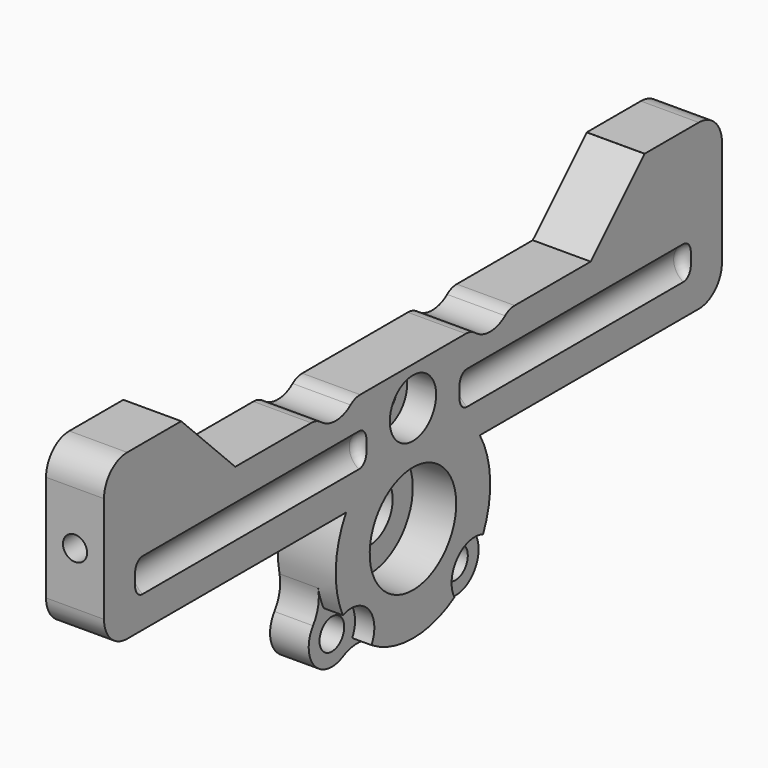
from build123d import *

# Parameters (mm, degrees)
CYLINDER109_R           = 5.6
CYLINDER109_DEPTH       = 4.5
CYLINDER109_PITCH_ANGLE = 90
CYLINDER103_R           = 3.1
CYLINDER103_DEPTH       = 6
CYLINDER103_PITCH_ANGLE = 90
CYLINDER104_R           = 3.1
CYLINDER104_DEPTH       = 6
CYLINDER104_PITCH_ANGLE = 90
CYLINDER057_R           = 2
CYLINDER057_DEPTH       = 30
CYLINDER057_ROLL_ANGLE  = 90
FILLET017_R             = 1
CYLINDER056_R           = 2
CYLINDER056_DEPTH       = 30
CYLINDER056_ROLL_ANGLE  = 90
FILLET016_R             = 1
CYLINDER052_R           = 1.25
CYLINDER052_DEPTH       = 10
CYLINDER052_ROLL_ANGLE  = 90
CYLINDER054_R           = 1.25
CYLINDER054_DEPTH       = 10
CYLINDER054_ROLL_ANGLE  = 90
CYLINDER047_R           = 3
CYLINDER047_DEPTH       = 3
CYLINDER047_PITCH_ANGLE = 90
CYLINDER048_R           = 1.6
CYLINDER048_DEPTH       = 10
CYLINDER048_PITCH_ANGLE = 90
BOX011_W                = 6
BOX011_H                = 10
BOX011_DEPTH            = 17
CYLINDER049_R           = 5.6
CYLINDER049_DEPTH       = 6
CYLINDER049_PITCH_ANGLE = 90
BOX009_W                = 6
BOX009_H                = 80
BOX009_DEPTH            = 10
CYLINDER042_R           = 3
CYLINDER042_DEPTH       = 3
CYLINDER042_PITCH_ANGLE = 90
CYLINDER043_R           = 1.6
CYLINDER043_DEPTH       = 10
CYLINDER043_PITCH_ANGLE = 90
CYLINDER044_R           = 1.6
CYLINDER044_DEPTH       = 10
CYLINDER044_PITCH_ANGLE = 90
CYLINDER041_R           = 3
CYLINDER041_DEPTH       = 3
CYLINDER041_PITCH_ANGLE = 90
CYLINDER035_R           = 3
CYLINDER035_DEPTH       = 6
CYLINDER035_PITCH_ANGLE = 90
CYLINDER040_R           = 3
CYLINDER040_DEPTH       = 6
CYLINDER040_PITCH_ANGLE = 90
CYLINDER034_R           = 3
CYLINDER034_DEPTH       = 5
CYLINDER034_PITCH_ANGLE = 90
CYLINDER033_R           = 5.6
CYLINDER033_DEPTH       = 4
CYLINDER033_PITCH_ANGLE = 90
CYLINDER002_R           = 10
CYLINDER002_DEPTH       = 6
CYLINDER002_PITCH_ANGLE = 90
BOX010_W                = 6
BOX010_H                = 10
BOX010_DEPTH            = 17
FILLET014_R             = 3
CHAMFER001_SIZE         = 6.99
FILLET035_R             = 4
FILLET037_R             = 2


with BuildPart() as cylinder109:
    # Cylinder109 → Cylinder109 (new body)
    with BuildSketch(Plane.XY):
        Circle(CYLINDER109_R)
    extrude(amount=CYLINDER109_DEPTH)


with BuildPart() as cylinder109_1:
    # Cylinder109 pitch: moved
    add(cylinder109.part.rotate(Axis((0, 0, 0), (0, 1, 0)), CYLINDER109_PITCH_ANGLE))


with BuildPart() as cylinder109_2:
    # Cylinder109 placement: moved
    add(cylinder109_1.part.moved(Location((56.5, 15, 19))))


with BuildPart() as cylinder103:
    # Cylinder103 → Cylinder103 (new body)
    with BuildSketch(Plane.XY):
        Circle(CYLINDER103_R)
    extrude(amount=CYLINDER103_DEPTH)


with BuildPart() as cylinder103_1:
    # Cylinder103 pitch: moved
    add(cylinder103.part.rotate(Axis((0, 0, 0), (0, 1, 0)), CYLINDER103_PITCH_ANGLE))


with BuildPart() as cylinder103_2:
    # Cylinder103 placement: moved
    add(cylinder103_1.part.moved(Location((55, 5, 36))))


with BuildPart() as fusion054:
    # Cylinder104 → Cylinder104 (new body)
    with BuildSketch(Plane.XY):
        Circle(CYLINDER104_R)
    extrude(amount=CYLINDER104_DEPTH)


with BuildPart() as fusion054_1:
    # Cylinder104 pitch: moved
    add(fusion054.part.rotate(Axis((0, 0, 0), (0, 1, 0)), CYLINDER104_PITCH_ANGLE))


with BuildPart() as fusion054_2:
    # Cylinder104 placement: moved
    add(fusion054_1.part.moved(Location((55, 25, 36))))

    # Fusion054: union Cylinder103
    add(cylinder103_2.part)


with BuildPart() as fillet017:
    # Cylinder057 → Cylinder057 (new body)
    with BuildSketch(Plane.XY):
        Circle(CYLINDER057_R)
    extrude(amount=CYLINDER057_DEPTH)


with BuildPart() as fillet017_1:
    # Cylinder057 roll: moved
    add(fillet017.part.rotate(Axis((0, 0, 0), (1, 0, 0)), CYLINDER057_ROLL_ANGLE))


with BuildPart() as fillet017_2:
    # Cylinder057 placement: moved
    add(fillet017_1.part.moved(Location((62, 9, 29))))

    # Fillet017
    fillet017_edges = [fillet017_2.edges().sort_by_distance(p)[0] for p in [
        (60, -21, 29),
        (60, 9, 29),
    ]]
    fillet(fillet017_edges, radius=FILLET017_R)


with BuildPart() as fillet017_3:
    # Fillet017 placement: moved
    add(fillet017_2.part.moved(Location((0, 42, 0))))


with BuildPart() as fusion028:
    # Cylinder056 → Cylinder056 (new body)
    with BuildSketch(Plane.XY):
        Circle(CYLINDER056_R)
    extrude(amount=CYLINDER056_DEPTH)


with BuildPart() as fusion028_1:
    # Cylinder056 roll: moved
    add(fusion028.part.rotate(Axis((0, 0, 0), (1, 0, 0)), CYLINDER056_ROLL_ANGLE))


with BuildPart() as fusion028_2:
    # Cylinder056 placement: moved
    add(fusion028_1.part.moved(Location((62, 9, 29))))

    # Fillet016
    fillet016_edges = [fusion028_2.edges().sort_by_distance(p)[0] for p in [
        (60, -21, 29),
        (60, 9, 29),
    ]]
    fillet(fillet016_edges, radius=FILLET016_R)

    # Fusion028: union Fillet017
    add(fillet017_3.part)


with BuildPart() as cylinder052:
    # Cylinder052 → Cylinder052 (new body)
    with BuildSketch(Plane.XY):
        Circle(CYLINDER052_R)
    extrude(amount=CYLINDER052_DEPTH)


with BuildPart() as cylinder052_1:
    # Cylinder052 roll: moved
    add(cylinder052.part.rotate(Axis((0, 0, 0), (1, 0, 0)), CYLINDER052_ROLL_ANGLE))


with BuildPart() as cylinder052_2:
    # Cylinder052 placement: moved
    add(cylinder052_1.part.moved(Location((58, -15, 32.5))))


with BuildPart() as fusion027:
    # Cylinder054 → Cylinder054 (new body)
    with BuildSketch(Plane.XY):
        Circle(CYLINDER054_R)
    extrude(amount=CYLINDER054_DEPTH)


with BuildPart() as fusion027_1:
    # Cylinder054 roll: moved
    add(fusion027.part.rotate(Axis((0, 0, 0), (1, 0, 0)), CYLINDER054_ROLL_ANGLE))


with BuildPart() as fusion027_2:
    # Cylinder054 placement: moved
    add(fusion027_1.part.moved(Location((58, 55, 32.5))))

    # Fusion027: union Cylinder052
    add(cylinder052_2.part)


with BuildPart() as cylinder047:
    # Cylinder047 → Cylinder047 (new body)
    with BuildSketch(Plane.XY):
        Circle(CYLINDER047_R)
    extrude(amount=CYLINDER047_DEPTH)


with BuildPart() as cylinder047_1:
    # Cylinder047 pitch: moved
    add(cylinder047.part.rotate(Axis((0, 0, 0), (0, 1, 0)), CYLINDER047_PITCH_ANGLE))


with BuildPart() as cylinder047_2:
    # Cylinder047 placement: moved
    add(cylinder047_1.part.moved(Location((58, 22, 12))))


with BuildPart() as fusion024:
    # Cylinder048 → Cylinder048 (new body)
    with BuildSketch(Plane.XY):
        Circle(CYLINDER048_R)
    extrude(amount=CYLINDER048_DEPTH)


with BuildPart() as fusion024_1:
    # Cylinder048 pitch: moved
    add(fusion024.part.rotate(Axis((0, 0, 0), (0, 1, 0)), CYLINDER048_PITCH_ANGLE))


with BuildPart() as fusion024_2:
    # Cylinder048 placement: moved
    add(fusion024_1.part.moved(Location((48, 22, 12))))

    # Fusion024: union Cylinder047
    add(cylinder047_2.part)


with BuildPart() as fusion024_3:
    # Fusion024 placement: moved
    add(fusion024_2.part.moved(Location((0, -7, 18))))


with BuildPart() as cube004:
    # Box011 → Box011 (new body)
    with BuildSketch(Plane(origin=(55, 45, 24), x_dir=(1, 0, 0), z_dir=(0, 0, 1))):
        with Locations((3, 5)):
            Rectangle(BOX011_W, BOX011_H)
    extrude(amount=BOX011_DEPTH)


with BuildPart() as cylinder049:
    # Cylinder049 → Cylinder049 (new body)
    with BuildSketch(Plane.XY):
        Circle(CYLINDER049_R)
    extrude(amount=CYLINDER049_DEPTH)


with BuildPart() as cylinder049_1:
    # Cylinder049 pitch: moved
    add(cylinder049.part.rotate(Axis((0, 0, 0), (0, 1, 0)), CYLINDER049_PITCH_ANGLE))


with BuildPart() as cylinder049_2:
    # Cylinder049 placement: moved
    add(cylinder049_1.part.moved(Location((55, 15, 19))))


with BuildPart() as cut016:
    # Box009 → Box009 (new body)
    with BuildSketch(Plane(origin=(55, -25, 24), x_dir=(1, 0, 0), z_dir=(0, 0, 1))):
        with Locations((3, 40)):
            Rectangle(BOX009_W, BOX009_H)
    extrude(amount=BOX009_DEPTH)

    # Cut016: cut Cylinder049
    add(cylinder049_2.part, mode=Mode.SUBTRACT)


with BuildPart() as cylinder042:
    # Cylinder042 → Cylinder042 (new body)
    with BuildSketch(Plane.XY):
        Circle(CYLINDER042_R)
    extrude(amount=CYLINDER042_DEPTH)


with BuildPart() as cylinder042_1:
    # Cylinder042 pitch: moved
    add(cylinder042.part.rotate(Axis((0, 0, 0), (0, 1, 0)), CYLINDER042_PITCH_ANGLE))


with BuildPart() as cylinder042_2:
    # Cylinder042 placement: moved
    add(cylinder042_1.part.moved(Location((58, 7, 12))))


with BuildPart() as cylinder043:
    # Cylinder043 → Cylinder043 (new body)
    with BuildSketch(Plane.XY):
        Circle(CYLINDER043_R)
    extrude(amount=CYLINDER043_DEPTH)


with BuildPart() as cylinder043_1:
    # Cylinder043 pitch: moved
    add(cylinder043.part.rotate(Axis((0, 0, 0), (0, 1, 0)), CYLINDER043_PITCH_ANGLE))


with BuildPart() as cylinder043_2:
    # Cylinder043 placement: moved
    add(cylinder043_1.part.moved(Location((51, 7, 12))))


with BuildPart() as cylinder044:
    # Cylinder044 → Cylinder044 (new body)
    with BuildSketch(Plane.XY):
        Circle(CYLINDER044_R)
    extrude(amount=CYLINDER044_DEPTH)


with BuildPart() as cylinder044_1:
    # Cylinder044 pitch: moved
    add(cylinder044.part.rotate(Axis((0, 0, 0), (0, 1, 0)), CYLINDER044_PITCH_ANGLE))


with BuildPart() as cylinder044_2:
    # Cylinder044 placement: moved
    add(cylinder044_1.part.moved(Location((51, 23, 12))))


with BuildPart() as fusion022:
    # Cylinder041 → Cylinder041 (new body)
    with BuildSketch(Plane.XY):
        Circle(CYLINDER041_R)
    extrude(amount=CYLINDER041_DEPTH)


with BuildPart() as fusion022_1:
    # Cylinder041 pitch: moved
    add(fusion022.part.rotate(Axis((0, 0, 0), (0, 1, 0)), CYLINDER041_PITCH_ANGLE))


with BuildPart() as fusion022_2:
    # Cylinder041 placement: moved
    add(fusion022_1.part.moved(Location((58, 23, 12))))

    # Fusion022: union Cylinder042, Cylinder043, Cylinder044
    add(cylinder042_2.part)
    add(cylinder043_2.part)
    add(cylinder044_2.part)


with BuildPart() as fusion022_3:
    # Fusion022 placement: moved
    add(fusion022_2.part.moved(Location((1, 0, 0))))


with BuildPart() as cylinder035:
    # Cylinder035 → Cylinder035 (new body)
    with BuildSketch(Plane.XY):
        Circle(CYLINDER035_R)
    extrude(amount=CYLINDER035_DEPTH)


with BuildPart() as cylinder035_1:
    # Cylinder035 pitch: moved
    add(cylinder035.part.rotate(Axis((0, 0, 0), (0, 1, 0)), CYLINDER035_PITCH_ANGLE))


with BuildPart() as cylinder035_2:
    # Cylinder035 placement: moved
    add(cylinder035_1.part.moved(Location((55, 23, 12))))


with BuildPart() as cylinder040:
    # Cylinder040 → Cylinder040 (new body)
    with BuildSketch(Plane.XY):
        Circle(CYLINDER040_R)
    extrude(amount=CYLINDER040_DEPTH)


with BuildPart() as cylinder040_1:
    # Cylinder040 pitch: moved
    add(cylinder040.part.rotate(Axis((0, 0, 0), (0, 1, 0)), CYLINDER040_PITCH_ANGLE))


with BuildPart() as cylinder040_2:
    # Cylinder040 placement: moved
    add(cylinder040_1.part.moved(Location((55, 7, 12))))


with BuildPart() as cylinder034:
    # Cylinder034 → Cylinder034 (new body)
    with BuildSketch(Plane.XY):
        Circle(CYLINDER034_R)
    extrude(amount=CYLINDER034_DEPTH)


with BuildPart() as cylinder034_1:
    # Cylinder034 pitch: moved
    add(cylinder034.part.rotate(Axis((0, 0, 0), (0, 1, 0)), CYLINDER034_PITCH_ANGLE))


with BuildPart() as cylinder034_2:
    # Cylinder034 placement: moved
    add(cylinder034_1.part.moved(Location((55, 15, 19))))


with BuildPart() as fusion019:
    # Cylinder033 → Cylinder033 (new body)
    with BuildSketch(Plane.XY):
        Circle(CYLINDER033_R)
    extrude(amount=CYLINDER033_DEPTH)


with BuildPart() as fusion019_1:
    # Cylinder033 pitch: moved
    add(fusion019.part.rotate(Axis((0, 0, 0), (0, 1, 0)), CYLINDER033_PITCH_ANGLE))


with BuildPart() as fusion019_2:
    # Cylinder033 placement: moved
    add(fusion019_1.part.moved(Location((57, 15, 19))))

    # Fusion019: union Cylinder034
    add(cylinder034_2.part)


with BuildPart() as cut014:
    # Cylinder002 → Cylinder002 (new body)
    with BuildSketch(Plane.XY):
        Circle(CYLINDER002_R)
    extrude(amount=CYLINDER002_DEPTH)


with BuildPart() as cut014_1:
    # Cylinder002 pitch: moved
    add(cut014.part.rotate(Axis((0, 0, 0), (0, 1, 0)), CYLINDER002_PITCH_ANGLE))


with BuildPart() as cut014_2:
    # Cylinder002 placement: moved
    add(cut014_1.part.moved(Location((55, 15, 19))))

    # Cut012: cut Fusion019
    add(fusion019_2.part, mode=Mode.SUBTRACT)

    # Fusion021: union Cylinder035, Cylinder040
    add(cylinder035_2.part)
    add(cylinder040_2.part)

    # Cut014: cut Fusion022
    add(fusion022_3.part, mode=Mode.SUBTRACT)


with BuildPart() as exit_part:
    # Box010 → Box010 (new body)
    with BuildSketch(Plane(origin=(55, -25, 24), x_dir=(1, 0, 0), z_dir=(0, 0, 1))):
        with Locations((3, 5)):
            Rectangle(BOX010_W, BOX010_H)
    extrude(amount=BOX010_DEPTH)

    # Fusion025: union Cube004, Cut016, Cut014
    add(cube004.part)
    add(cut016.part)
    add(cut014_2.part)

    # Cut017: cut Fusion024
    add(fusion024_3.part, mode=Mode.SUBTRACT)

    # Fillet014
    fillet014_edges = [exit_part.edges().sort_by_distance(p)[0] for p in [
        (58, -25, 41),
        (58, -25, 24),
        (58, 55, 41),
        (58, 55, 24),
    ]]
    fillet(fillet014_edges, radius=FILLET014_R)

    # Chamfer001
    chamfer001_edges = [exit_part.edges().sort_by_distance(p)[0] for p in [
        (58, -15, 34),
        (58, 45, 34),
    ]]
    chamfer(chamfer001_edges, length=CHAMFER001_SIZE)

    # Cut043: cut Fusion027
    add(fusion027_2.part, mode=Mode.SUBTRACT)

    # Cut044: cut Fusion028
    add(fusion028_2.part, mode=Mode.SUBTRACT)

    # Fillet035
    fillet035_edges = [exit_part.edges().sort_by_distance(p)[0] for p in [
        (57, 5.924488, 14.800585),
        (57, 9.633034, 10.562247),
        (57, 24.075512, 14.800585),
        (57, 20.366966, 10.562247),
    ]]
    fillet(fillet035_edges, radius=FILLET035_R)

    # Cut045: cut Fusion054
    add(fusion054_2.part, mode=Mode.SUBTRACT)

    # Fillet037
    fillet037_edges = [exit_part.edges().sort_by_distance(p)[0] for p in [
        (58, 2.631456, 34),
        (58, 7.368544, 34),
        (58, 22.631456, 34),
        (58, 27.368544, 34),
    ]]
    fillet(fillet037_edges, radius=FILLET037_R)

    # Cut048: cut Cylinder109
    add(cylinder109_2.part, mode=Mode.SUBTRACT)


solid = exit_part.part
